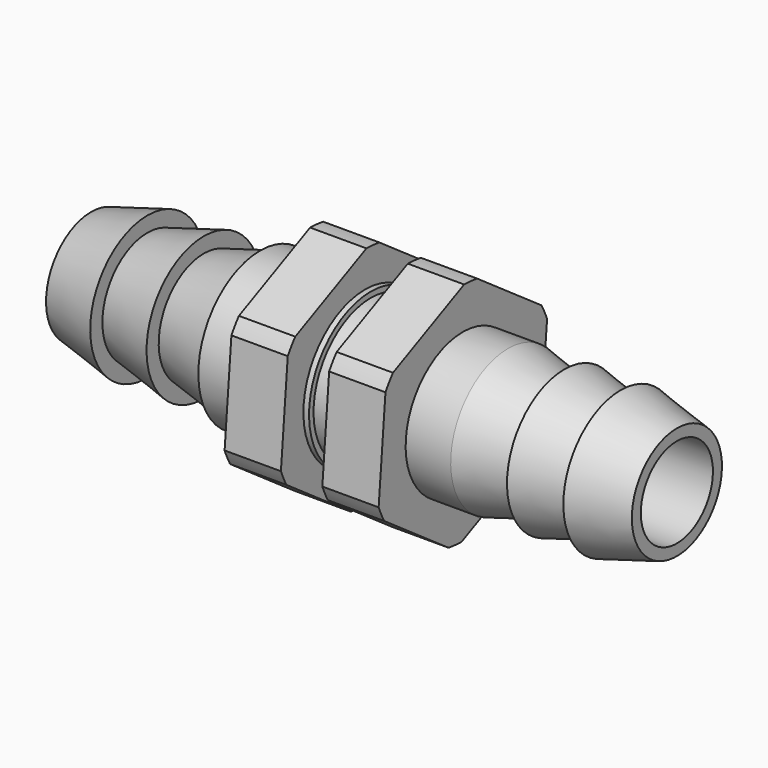
from build123d import *

# Parameters (mm, degrees)
F2_R     = 21.385833
F3_DEPTH = 50.9


with BuildPart() as f1:
    # F0 (on Front) → F1 (revolve)
    with BuildSketch(Plane.XZ):
        Polygon((-52, 5), (-52, 4), (0, 4), (0, 5), (-5, 6.35), (-5, 5), (-10, 6.35), (-10, 5), (-15, 6.35), (-19, 6.35), (-19, 10), (-24, 10), (-24, 6.35), (-27.175, 6.35), (-27.175, 6.85), (-27.675, 6.85), (-27.675, 10), (-32.675, 10), (-32.675, 6.85), (-37, 6.85), (-37, 6.35), (-42, 5), (-42, 6.35), (-47, 5), (-47, 6.35), align=None)
    revolve(axis=Axis((-26, 0, 0), (-1, 0, 0)))

    # F2 (on Right) → F3 (cut)
    with BuildSketch(Plane.YZ):
        Circle(F2_R)
        Polygon((0.902042, 10.353083), (9.417053, 4.39535), (8.515012, -5.957732), (-0.902042, -10.353083), (-9.417053, -4.39535), (-8.515012, 5.957732), align=None, mode=Mode.SUBTRACT)
    extrude(amount=-F3_DEPTH, mode=Mode.SUBTRACT)


solid = f1.part
